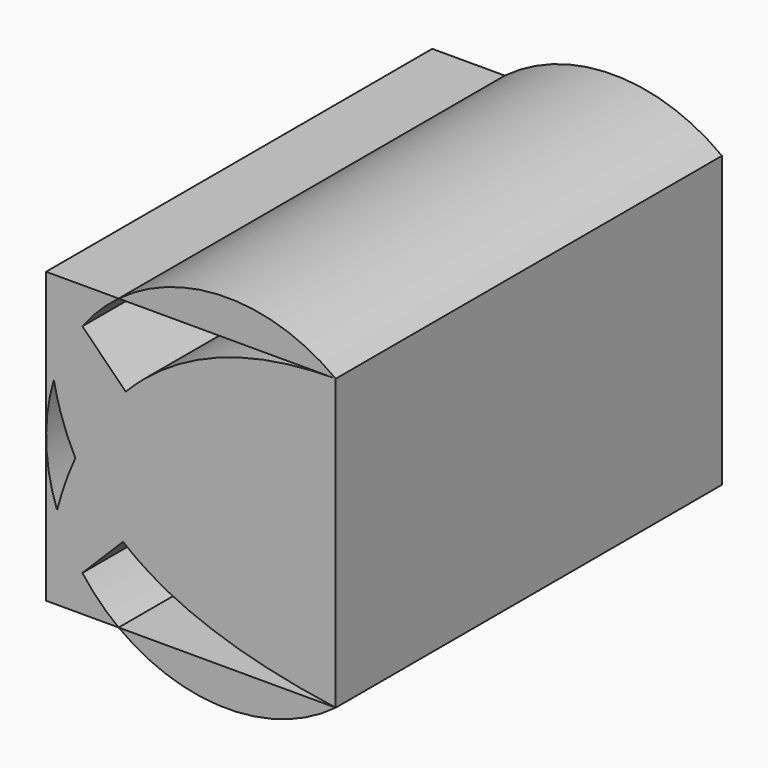
from build123d import *

# Parameters (mm, degrees)
F1_DEPTH = 63.5


with BuildPart() as f1:
    # F0 (on Front) → F1 (new body, symmetric)
    with BuildSketch(Plane.XZ):
        with BuildLine():
            ThreePointArc((38.1, 38.1), (9.5427310973, 47.6143634545), (-19.0145378053, 38.1))
            Line((-19.0145378053, 38.1), (38.1, 38.1))
        make_face()
    extrude(amount=F1_DEPTH, both=True)


with BuildPart() as f1b:
    # F0 (on Front) → F1, piece 2 (new body, symmetric)
    with BuildSketch(Plane.XZ):
        with BuildLine():
            Line((-19.0145378053, 38.1), (-38.1, 38.1))
            Line((-38.1, 38.1), (-28.5572689027, 28.5572689027))
            ThreePointArc((-28.5572689027, 28.5572689027), (-24.1257081832, 33.6684392806), (-19.0145378053, 38.1))
        make_face()
        with BuildLine():
            Line((-28.5572689027, 28.5572689027), (-38.1, 38.1))
            add(Edge.make_bspline(
                [(-36.0593740105, 13.6958247987), (-37.606358952, 21.2626155541), (-38.1, 29.4344872531), (-38.1, 38.1)],
                knots=[83.2533021496, 83.2533021496, 83.2533021496, 83.2533021496, 107.7630734528, 107.7630734528, 107.7630734528, 107.7630734528], degree=3))
            ThreePointArc((-36.0593740105, 13.6958247987), (-32.9628712403, 21.456965701), (-28.5572689027, 28.5572689027))
        make_face()
        with BuildLine():
            add(Edge.make_bspline(
                [(-36.0593740105, 13.6958247987), (-37.606358952, 21.2626155541), (-38.1, 29.4344872531), (-38.1, 38.1)],
                knots=[83.2533021496, 83.2533021496, 83.2533021496, 83.2533021496, 107.7630734528, 107.7630734528, 107.7630734528, 107.7630734528], degree=3))
            Line((-38.1, 38.1), (-38.1, -38.1))
            add(Edge.make_bspline(
                [(-35.2221567826, -16.2244389818), (-37.1399092957, -23.6350339686), (-38.0359895886, -31.0968665214), (-38.1, -38.1)],
                knots=[84.8979166137, 84.8979166137, 84.8979166137, 84.8979166137, 107.7630734528, 107.7630734528, 107.7630734528, 107.7630734528], degree=3))
            ThreePointArc((-35.2221567826, -16.2244389818), (-38.0530029719, -1.3318053887), (-36.0593740105, 13.6958247987))
        make_face()
        with BuildLine():
            add(Edge.make_bspline(
                [(-35.2221567826, -16.2244389818), (-37.1399092957, -23.6350339686), (-38.0359895886, -31.0968665214), (-38.1, -38.1)],
                knots=[84.8979166137, 84.8979166137, 84.8979166137, 84.8979166137, 107.7630734528, 107.7630734528, 107.7630734528, 107.7630734528], degree=3))
            Line((-38.1, -38.1), (-28.5572689027, -28.5572689027))
            ThreePointArc((-28.5572689027, -28.5572689027), (-32.346075096, -22.6374804887), (-35.2221567826, -16.2244389818))
        make_face()
        with BuildLine():
            Line((-28.5572689027, -28.5572689027), (-38.1, -38.1))
            Line((-38.1, -38.1), (-19.0145378053, -38.1))
            ThreePointArc((-19.0145378053, -38.1), (-24.1257081832, -33.6684392806), (-28.5572689027, -28.5572689027))
        make_face()
        with BuildLine():
            Line((38.1, -38.1), (38.1, 38.1))
            add(Edge.make_bspline(
                [(38.1, 38.1), (12.6778335683, 38.1), (-5.1501830309, 29.5422656203), (-17.1344151816, 17.1344151816)],
                knots=[0, 0, 0, 0, 47.9662603215, 47.9662603215, 47.9662603215, 47.9662603215], degree=3))
            Line((-17.1344151816, 17.1344151816), (0, 0))
            Line((0, 0), (-17.8533637351, -17.8533637351))
            add(Edge.make_bspline(
                [(38.1, -38.1), (11.1752385556, -34.2454202587), (-6.430822182, -27.2884642452), (-17.8533637351, -17.8533637351)],
                knots=[0, 0, 0, 0, 43.5285617457, 43.5285617457, 43.5285617457, 43.5285617457], degree=3))
        make_face()
        with BuildLine():
            Line((-17.1344151816, 17.1344151816), (-28.5572689027, 28.5572689027))
            ThreePointArc((-28.5572689027, 28.5572689027), (-32.9628712403, 21.456965701), (-36.0593740105, 13.6958247987))
            add(Edge.make_bspline(
                [(-30.4057033655, -2.5642181738), (-33.0744992193, 2.4680800067), (-34.8754227559, 7.9047461869), (-36.0593740105, 13.6958247987)],
                knots=[64.4952821435, 64.4952821435, 64.4952821435, 64.4952821435, 83.2533021496, 83.2533021496, 83.2533021496, 83.2533021496], degree=3))
            add(Edge.make_bspline(
                [(-17.1344151816, 17.1344151816), (-22.8045349243, 11.2638682118), (-27.1665026272, 4.5314589985), (-30.4057033655, -2.5642181738)],
                knots=[47.9662603215, 47.9662603215, 47.9662603215, 47.9662603215, 70.6606170574, 70.6606170574, 70.6606170574, 70.6606170574], degree=3))
        make_face()
        with BuildLine():
            ThreePointArc((-35.2221567826, -16.2244389818), (-32.346075096, -22.6374804887), (-28.5572689027, -28.5572689027))
            Line((-28.5572689027, -28.5572689027), (-17.8533637351, -17.8533637351))
            add(Edge.make_bspline(
                [(-17.8533637351, -17.8533637351), (-23.3553427892, -13.3086899305), (-27.4226648333, -8.1890543173), (-30.4057033655, -2.5642181738)],
                knots=[43.5285617457, 43.5285617457, 43.5285617457, 43.5285617457, 64.4952821435, 64.4952821435, 64.4952821435, 64.4952821435], degree=3))
            add(Edge.make_bspline(
                [(-30.4057033655, -2.5642181738), (-32.4378152148, -7.0156896402), (-34.0280422093, -11.6101316556), (-35.2221567826, -16.2244389818)],
                knots=[70.6606170574, 70.6606170574, 70.6606170574, 70.6606170574, 84.8979166137, 84.8979166137, 84.8979166137, 84.8979166137], degree=3))
        make_face()
        with BuildLine():
            Line((0, 0), (-17.1344151816, 17.1344151816))
            add(Edge.make_bspline(
                [(-17.1344151816, 17.1344151816), (-22.8045349243, 11.2638682118), (-27.1665026272, 4.5314589985), (-30.4057033655, -2.5642181738)],
                knots=[47.9662603215, 47.9662603215, 47.9662603215, 47.9662603215, 70.6606170574, 70.6606170574, 70.6606170574, 70.6606170574], degree=3))
            add(Edge.make_bspline(
                [(-17.8533637351, -17.8533637351), (-23.3553427892, -13.3086899305), (-27.4226648333, -8.1890543173), (-30.4057033655, -2.5642181738)],
                knots=[43.5285617457, 43.5285617457, 43.5285617457, 43.5285617457, 64.4952821435, 64.4952821435, 64.4952821435, 64.4952821435], degree=3))
            Line((-17.8533637351, -17.8533637351), (0, 0))
        make_face()
    extrude(amount=F1_DEPTH, both=True)


with BuildPart() as f1c:
    # F0 (on Front) → F1, piece 3 (new body, symmetric)
    with BuildSketch(Plane.XZ):
        with BuildLine():
            Line((38.1, -38.1), (-19.0145378053, -38.1))
            ThreePointArc((-19.0145378053, -38.1), (9.5427310973, -47.6143634545), (38.1, -38.1))
        make_face()
    extrude(amount=F1_DEPTH, both=True)


solid = Compound([f1.part, f1b.part, f1c.part])
